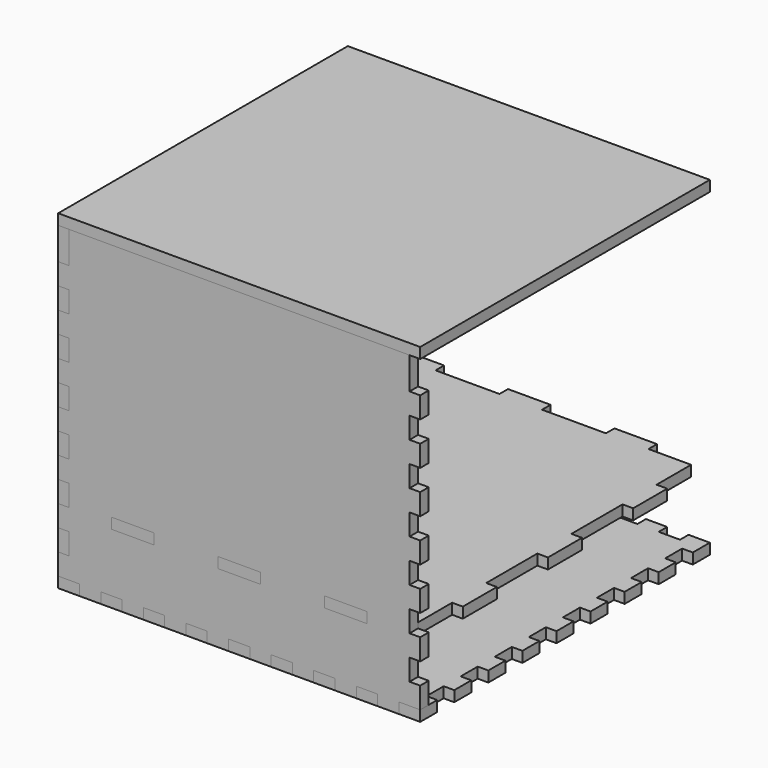
from build123d import *

# Parameters (mm, degrees)
F1_DEPTH  = 6.35
F3_DEPTH  = 6.35
F5_DEPTH  = 6.35
F6_W      = 25.4
F6_H      = 6.35
F7_DEPTH  = 6.35
F8_W      = 25.4
F8_H      = 6.35
F9_DEPTH  = 6.35
F11_DEPTH = 6.35
F12_W     = 215.9
F12_H     = 215.9
F13_DEPTH = 6.35


with BuildPart() as f1:
    # F0 (on Top) → F1 (new body)
    with BuildSketch(Plane.XY):
        Polygon((-49.157233676, 103.3237924039), (-61.857233676, 103.3237924039), (-61.857233676, 109.6737924039), (-68.207233676, 109.6737924039), (-74.557233676, 109.6737924039), (-74.557233676, 96.9737924039), (-68.207233676, 96.9737924039), (-68.207233676, 84.2737924039), (-74.557233676, 84.2737924039), (-74.557233676, 71.5737924039), (-68.207233676, 71.5737924039), (-68.207233676, 58.8737924039), (-74.557233676, 58.8737924039), (-74.557233676, 46.1737924039), (-68.207233676, 46.1737924039), (-68.207233676, 33.4737924039), (-74.557233676, 33.4737924039), (-74.557233676, 20.7737924039), (-68.207233676, 20.7737924039), (-68.207233676, 8.0737924039), (-74.557233676, 8.0737924039), (-74.557233676, -4.6262075961), (-68.207233676, -4.6262075961), (-68.207233676, -17.3262075961), (-74.557233676, -17.3262075961), (-74.557233676, -30.0262075961), (-68.207233676, -30.0262075961), (-68.207233676, -42.7262075961), (-74.557233676, -42.7262075961), (-74.557233676, -55.4262075961), (-68.207233676, -55.4262075961), (-68.207233676, -68.1262075961), (-74.557233676, -68.1262075961), (-74.557233676, -80.8262075961), (-68.207233676, -80.8262075961), (-68.207233676, -93.5262075961), (-74.557233676, -93.5262075961), (-74.557233676, -106.2262075961), (-68.207233676, -106.2262075961), (-61.857233676, -106.2262075961), (-61.857233676, -99.8762075961), (-49.157233676, -99.8762075961), (-49.157233676, -106.2262075961), (-36.457233676, -106.2262075961), (-36.457233676, -99.8762075961), (-23.757233676, -99.8762075961), (-23.757233676, -106.2262075961), (-11.057233676, -106.2262075961), (-11.057233676, -99.8762075961), (1.642766324, -99.8762075961), (1.642766324, -106.2262075961), (14.342766324, -106.2262075961), (14.342766324, -99.8762075961), (27.042766324, -99.8762075961), (27.042766324, -106.2262075961), (33.392766324, -106.2262075961), (39.742766324, -106.2262075961), (39.742766324, -99.8762075961), (52.442766324, -99.8762075961), (52.442766324, -106.2262075961), (65.142766324, -106.2262075961), (65.142766324, -99.8762075961), (77.842766324, -99.8762075961), (77.842766324, -106.2262075961), (90.542766324, -106.2262075961), (90.542766324, -99.8762075961), (103.242766324, -99.8762075961), (103.242766324, -106.2262075961), (115.942766324, -106.2262075961), (115.942766324, -99.8762075961), (128.642766324, -99.8762075961), (128.642766324, -106.2262075961), (134.992766324, -106.2262075961), (141.342766324, -106.2262075961), (141.342766324, -93.5262075961), (134.992766324, -93.5262075961), (134.992766324, -80.8262075961), (141.342766324, -80.8262075961), (141.342766324, -68.1262075961), (134.992766324, -68.1262075961), (134.992766324, -55.4262075961), (141.342766324, -55.4262075961), (141.342766324, -42.7262075961), (134.992766324, -42.7262075961), (134.992766324, -30.0262075961), (141.342766324, -30.0262075961), (141.342766324, -17.3262075961), (134.992766324, -17.3262075961), (134.992766324, -4.6262075961), (141.342766324, -4.6262075961), (141.342766324, 8.0737924039), (134.992766324, 8.0737924039), (134.992766324, 20.7737924039), (141.342766324, 20.7737924039), (141.342766324, 33.4737924039), (134.992766324, 33.4737924039), (134.992766324, 46.1737924039), (141.342766324, 46.1737924039), (141.342766324, 58.8737924039), (134.992766324, 58.8737924039), (134.992766324, 71.5737924039), (141.342766324, 71.5737924039), (141.342766324, 84.2737924039), (134.992766324, 84.2737924039), (134.992766324, 96.9737924039), (141.342766324, 96.9737924039), (141.342766324, 109.6737924039), (134.992766324, 109.6737924039), (128.642766324, 109.6737924039), (128.642766324, 103.3237924039), (115.942766324, 103.3237924039), (115.942766324, 109.6737924039), (103.242766324, 109.6737924039), (103.242766324, 103.3237924039), (90.542766324, 103.3237924039), (90.542766324, 109.6737924039), (77.842766324, 109.6737924039), (77.842766324, 103.3237924039), (65.142766324, 103.3237924039), (65.142766324, 109.6737924039), (52.442766324, 109.6737924039), (52.442766324, 103.3237924039), (39.742766324, 103.3237924039), (39.742766324, 109.6737924039), (33.392766324, 109.6737924039), (27.042766324, 109.6737924039), (27.042766324, 103.3237924039), (14.342766324, 103.3237924039), (14.342766324, 109.6737924039), (1.642766324, 109.6737924039), (1.642766324, 103.3237924039), (-11.057233676, 103.3237924039), (-11.057233676, 109.6737924039), (-23.757233676, 109.6737924039), (-23.757233676, 103.3237924039), (-36.457233676, 103.3237924039), (-36.457233676, 109.6737924039), (-49.157233676, 109.6737924039), align=None)
    extrude(amount=F1_DEPTH)


with BuildPart() as f3:
    # F2 (on face) → F3 (new body)
    with BuildSketch(Plane.XZ.offset(99.8762075961)):
        Polygon((14.342766324, 6.35), (14.342766324, 0), (27.042766324, 0), (27.042766324, 6.35), (39.742766324, 6.35), (39.742766324, 0), (52.442766324, 0), (52.442766324, 6.35), (65.142766324, 6.35), (65.142766324, 0), (77.842766324, 0), (77.842766324, 6.35), (90.542766324, 6.35), (90.542766324, 0), (103.242766324, 0), (103.242766324, 6.35), (115.942766324, 6.35), (115.942766324, 0), (128.642766324, 0), (128.642766324, 6.35), (134.992766324, 6.35), (141.342766324, 6.35), (141.342766324, 19.05), (134.992766324, 19.05), (134.992766324, 31.75), (141.342766324, 31.75), (141.342766324, 44.45), (134.992766324, 44.45), (134.992766324, 57.15), (141.342766324, 57.15), (141.342766324, 69.85), (134.992766324, 69.85), (134.992766324, 82.55), (141.342766324, 82.55), (141.342766324, 95.25), (134.992766324, 95.25), (134.992766324, 107.95), (141.342766324, 107.95), (141.342766324, 120.6462027343), (134.992766324, 120.6462027343), (134.992766324, 133.3462027343), (141.342766324, 133.3462027343), (141.342766324, 146.0462027343), (134.992766324, 146.0462027343), (134.992766324, 158.7462027343), (141.342766324, 158.7462027343), (141.342766324, 171.4462027343), (134.992766324, 171.4462027343), (134.992766324, 184.15), (134.992766324, 190.5), (128.642766324, 190.5), (115.942766324, 190.5), (-68.207233676, 190.5), (-68.207233676, 184.15), (-68.207233676, 171.4462027343), (-74.557233676, 171.4462027343), (-74.557233676, 158.7462027343), (-68.207233676, 158.7462027343), (-68.207233676, 146.0462027343), (-74.557233676, 146.0462027343), (-74.557233676, 133.3462027343), (-68.207233676, 133.3462027343), (-68.207233676, 120.6462027343), (-74.557233676, 120.6462027343), (-74.557233676, 107.95), (-68.207233676, 107.95), (-68.207233676, 95.25), (-74.557233676, 95.25), (-74.557233676, 82.55), (-68.207233676, 82.55), (-68.207233676, 69.85), (-74.557233676, 69.85), (-74.557233676, 57.15), (-68.207233676, 57.15), (-68.207233676, 44.45), (-74.557233676, 44.45), (-74.557233676, 31.75), (-68.207233676, 31.75), (-68.207233676, 19.05), (-74.557233676, 19.05), (-74.557233676, 6.35), (-68.207233676, 6.35), (-61.857233676, 6.35), (-61.857233676, 0), (-49.157233676, 0), (-49.157233676, 6.35), (-36.457233676, 6.35), (-36.457233676, 0), (-23.757233676, 0), (-23.757233676, 6.35), (-11.057233676, 6.35), (-11.057233676, 0), (1.642766324, 0), (1.642766324, 6.35), align=None)
    extrude(amount=F3_DEPTH)

    # F6 (on face) → F7 (cut, through all)
    with BuildSketch(Plane(origin=(0, -99.8762075961, 0), x_dir=(-1, 0, 0), z_dir=(0, 1, 0))):
        with Locations((-33.392766324, 44.45)):
            Rectangle(F6_W, F6_H)
        with Locations((-96.892766324, 44.45)):
            Rectangle(F6_W, F6_H)
        with Locations((30.107233676, 44.45)):
            Rectangle(F6_W, F6_H)
    extrude(amount=-F7_DEPTH, mode=Mode.SUBTRACT)


with BuildPart() as f5:
    # F4 (on face) → F5 (new body)
    with BuildSketch(Plane(origin=(-68.207233676, 0, 0), x_dir=(0, -1, 0), z_dir=(-1, 0, 0))):
        Polygon((-96.9737924039, 6.35), (-96.9737924039, 0), (-84.2737924039, 0), (-84.2737924039, 6.35), (-71.5737924039, 6.35), (-71.5737924039, 0), (-58.8737924039, 0), (-58.8737924039, 6.35), (-46.1737924039, 6.35), (-46.1737924039, 0), (-33.4737924039, 0), (-33.4737924039, 6.35), (-20.7737924039, 6.35), (-20.7737924039, 0), (-8.0737924039, 0), (-8.0737924039, 6.35), (4.6262075961, 6.35), (4.6262075961, 0), (17.3262075961, 0), (17.3262075961, 6.35), (30.0262075961, 6.35), (30.0262075961, 0), (42.7262075961, 0), (42.7262075961, 6.35), (55.4262075961, 6.35), (55.4262075961, 0), (68.1262075961, 0), (68.1262075961, 6.35), (80.8262075961, 6.35), (80.8262075961, 0), (93.5262075961, 0), (93.5262075961, 6.35), (99.8762075961, 6.35), (99.8762075961, 19.05), (106.2262075961, 19.05), (106.2262075961, 31.75), (99.8762075961, 31.75), (99.8762075961, 44.45), (106.2262075961, 44.45), (106.2262075961, 57.15), (99.8762075961, 57.15), (99.8762075961, 69.85), (106.2262075961, 69.85), (106.2262075961, 82.55), (99.8762075961, 82.55), (99.8762075961, 95.25), (106.2262075961, 95.25), (106.2262075961, 107.95), (99.8762075961, 107.95), (99.8762075961, 120.6462027343), (106.2262075961, 120.6462027343), (106.2262075961, 133.3462027343), (99.8762075961, 133.3462027343), (99.8762075961, 146.0462027343), (106.2262075961, 146.0462027343), (106.2262075961, 158.7462027343), (99.8762075961, 158.7462027343), (99.8762075961, 171.4462027343), (106.2262075961, 171.4462027343), (106.2262075961, 190.5), (99.8762075961, 190.5), (-103.3237924039, 190.5), (-103.3237924039, 184.15), (-109.6737924039, 184.15), (-109.6737924039, 171.4462027343), (-103.3237924039, 171.4462027343), (-103.3237924039, 158.7462027343), (-109.6737924039, 158.7462027343), (-109.6737924039, 146.0462027343), (-103.3237924039, 146.0462027343), (-103.3237924039, 133.3462027343), (-109.6737924039, 133.3462027343), (-109.6737924039, 120.6462027343), (-103.3237924039, 120.6462027343), (-103.3237924039, 107.95), (-109.6737924039, 107.95), (-109.6737924039, 95.25), (-103.3237924039, 95.25), (-103.3237924039, 82.55), (-109.6737924039, 82.55), (-109.6737924039, 69.85), (-103.3237924039, 69.85), (-103.3237924039, 57.15), (-109.6737924039, 57.15), (-109.6737924039, 44.45), (-103.3237924039, 44.45), (-103.3237924039, 31.75), (-109.6737924039, 31.75), (-109.6737924039, 19.05), (-103.3237924039, 19.05), (-103.3237924039, 6.35), align=None)
    extrude(amount=F5_DEPTH)

    # F8 (on face) → F9 (cut, through all)
    with BuildSketch(Plane.YZ.offset(-68.207233676)):
        with Locations((2.0639709754, 44.45)):
            Rectangle(F8_W, F8_H)
        with Locations((-61.4360290246, 44.45)):
            Rectangle(F8_W, F8_H)
        with Locations((65.5639709754, 44.45)):
            Rectangle(F8_W, F8_H)
    extrude(amount=-F9_DEPTH, mode=Mode.SUBTRACT)


with BuildPart() as f11:
    # F10 (on face) → F11 (new body)
    with BuildSketch(Plane.XY.offset(41.275)):
        Polygon((-42.807233676, -106.2262075961), (-17.407233676, -106.2262075961), (-17.407233676, -99.8762075961), (20.692766324, -99.8762075961), (20.692766324, -106.2262075961), (46.092766324, -106.2262075961), (46.092766324, -99.8762075961), (84.192766324, -99.8762075961), (84.192766324, -106.2262075961), (109.592766324, -106.2262075961), (109.592766324, -99.8762075961), (134.992766324, -99.8762075961), (134.992766324, -74.4762075961), (141.342766324, -74.4762075961), (141.342766324, -49.0762075961), (134.992766324, -49.0762075961), (134.992766324, -10.9762075961), (141.342766324, -10.9762075961), (141.342766324, 14.4237924039), (134.992766324, 14.4237924039), (134.992766324, 52.5237924039), (141.342766324, 52.5237924039), (141.342766324, 77.9237924039), (134.992766324, 77.9237924039), (134.992766324, 103.6639709754), (109.592766324, 103.6639709754), (109.592766324, 110.0139709754), (84.192766324, 110.0139709754), (84.192766324, 103.6639709754), (46.092766324, 103.6639709754), (46.092766324, 110.0139709754), (20.692766324, 110.0139709754), (20.692766324, 103.6639709754), (-17.407233676, 103.6639709754), (-17.407233676, 110.0139709754), (-42.807233676, 110.0139709754), (-42.807233676, 103.6639709754), (-68.207233676, 103.6639709754), (-68.207233676, 78.2639709754), (-74.557233676, 78.2639709754), (-74.557233676, 52.8639709754), (-68.207233676, 52.8639709754), (-68.207233676, 14.7639709754), (-74.557233676, 14.7639709754), (-74.557233676, -10.6360290246), (-68.207233676, -10.6360290246), (-68.207233676, -48.7360290246), (-74.557233676, -48.7360290246), (-74.557233676, -74.1360290246), (-68.207233676, -74.1360290246), (-68.207233676, -99.8762075961), (-42.807233676, -99.8762075961), align=None)
    extrude(amount=F11_DEPTH)


with BuildPart() as f13:
    # F12 (on face) → F13 (new body)
    with BuildSketch(Plane.XY.offset(190.5)):
        with Locations((33.392766324, 1.7237924039)):
            Rectangle(F12_W, F12_H)
    extrude(amount=F13_DEPTH)


solid = Compound([f1.part, f3.part, f5.part, f11.part, f13.part])
